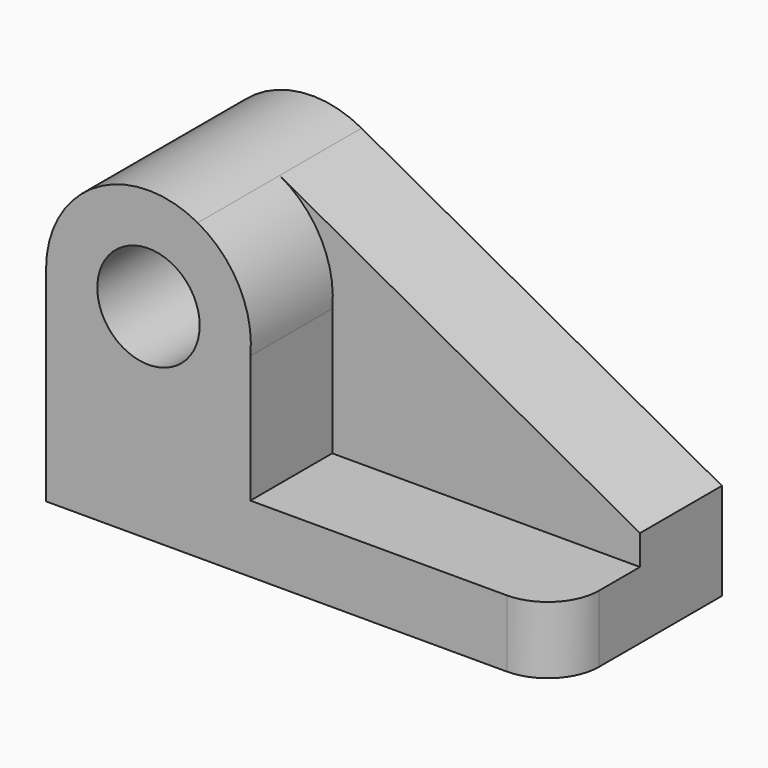
from build123d import *

# Parameters (mm, degrees)
F0_R     = 12.7
F1_DEPTH = 25.4
F4_R     = 12.7
F5_DEPTH = 25.4
F6_R     = 12.7


with BuildPart() as f1:
    # F0 (on Front) → F1 (new body)
    with BuildSketch(Plane.XZ):
        with BuildLine():
            Line((58.923879, -11.589798), (-30.463359, 37.426992))
            ThreePointArc((-30.463359, 37.426992), (-55.617447, 37.011684), (-68.076121, 15.155744))
            Line((-68.076121, 15.155744), (-68.076121, -35.644256))
            Line((-68.076121, -35.644256), (58.923879, -35.644256))
            Line((58.923879, -35.644256), (58.923879, -21.580534))
            Line((58.923879, -21.580534), (58.923879, -11.589798))
        make_face()
        with Locations((-42.676121, 15.155744)):
            Circle(F0_R, mode=Mode.SUBTRACT)
    extrude(amount=F1_DEPTH)

    # F4 (on face) → F5 (join)
    with BuildSketch(Plane.XZ.offset(25.4)):
        with BuildLine():
            Line((-17.407208, -18.995201), (-17.407208, 12.578534))
            ThreePointArc((-17.407208, 12.578534), (-20.191005, 26.970123), (-30.463359, 37.426992))
            ThreePointArc((-30.463359, 37.426992), (-55.617447, 37.011684), (-68.076121, 15.155744))
            Line((-68.076121, 15.155744), (-68.076121, -18.995201))
            Line((-68.076121, -18.995201), (-68.076121, -35.644256))
            Line((-68.076121, -35.644256), (58.923879, -35.644256))
            Line((58.923879, -35.644256), (58.923879, -18.995201))
            Line((58.923879, -18.995201), (-17.407208, -18.995201))
        make_face()
        with Locations((-42.676121, 15.155744)):
            Circle(F4_R, mode=Mode.SUBTRACT)
    extrude(amount=F5_DEPTH)

    # F6
    f6_edges = [f1.edges().sort_by_distance(p)[0] for p in [
        (58.923879, -50.8, -27.319728),
    ]]
    fillet(f6_edges, radius=F6_R)


solid = f1.part
